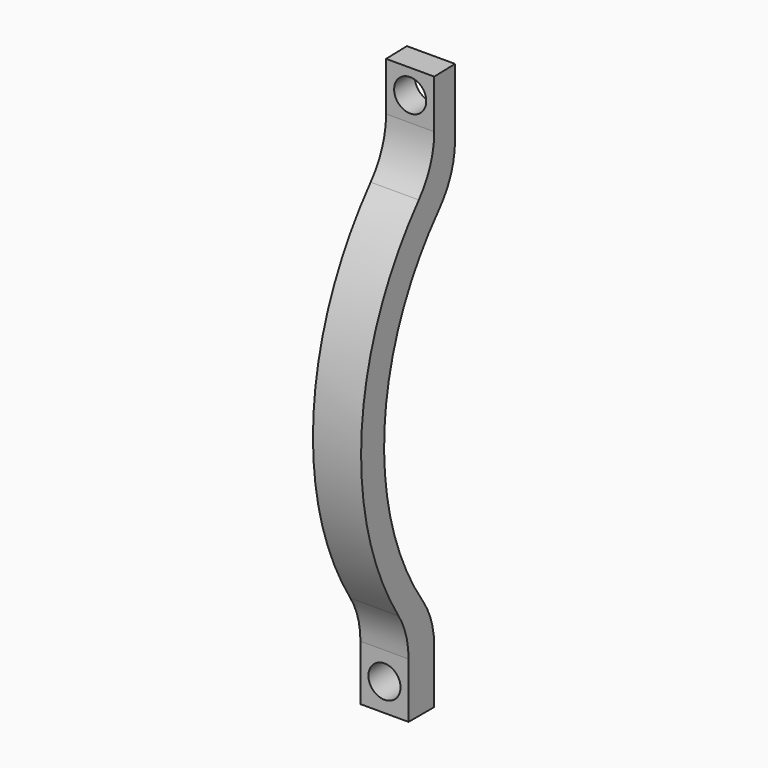
from build123d import *

# Parameters (mm, degrees)
F1_DEPTH = 3.81
F2_R     = 1.27
F3_DEPTH = 25.4
F4_R     = 1.27
F5_DEPTH = 9.4996


with BuildPart() as f1:
    # F0 (on Right) → F1 (new body)
    with BuildSketch(Plane.YZ):
        with BuildLine():
            Line((0, 4.382191), (0, 0))
            Line((0, 0), (2.54, 0))
            Line((2.54, 0), (2.54, 4.228206))
            ThreePointArc((2.54, 4.228206), (2.252063, 6.118681), (1.414363, 7.837711))
            ThreePointArc((1.414363, 7.837711), (-2.381643, 21.423937), (3.005292, 34.461426))
            ThreePointArc((3.005292, 34.461426), (4.186454, 36.41869), (4.597952, 38.667399))
            Line((4.597952, 38.667399), (4.597952, 43.971926))
            Line((4.597952, 43.971926), (2.54, 43.9214))
            Line((2.54, 43.9214), (2.54, 40.08054))
            ThreePointArc((2.54, 40.08054), (2.145807, 37.878073), (1.01217, 35.949054))
            ThreePointArc((1.01217, 35.949054), (-4.635087, 22.199709), (-0.991445, 7.7893))
            ThreePointArc((-0.991445, 7.7893), (-0.252897, 6.156406), (0, 4.382191))
        make_face()
    extrude(amount=F1_DEPTH)

    # F2 (on face) → F3 (cut)
    with BuildSketch(Plane.XZ.offset(-2.54)):
        with Locations((1.905, 42.00097)):
            Circle(F2_R)
    extrude(amount=-F3_DEPTH, mode=Mode.SUBTRACT)

    # F4 (on face) → F5 (cut)
    with BuildSketch(Plane.XZ):
        with Locations((1.905, 2.191095)):
            Circle(F4_R)
    extrude(amount=-F5_DEPTH, mode=Mode.SUBTRACT)


solid = f1.part
